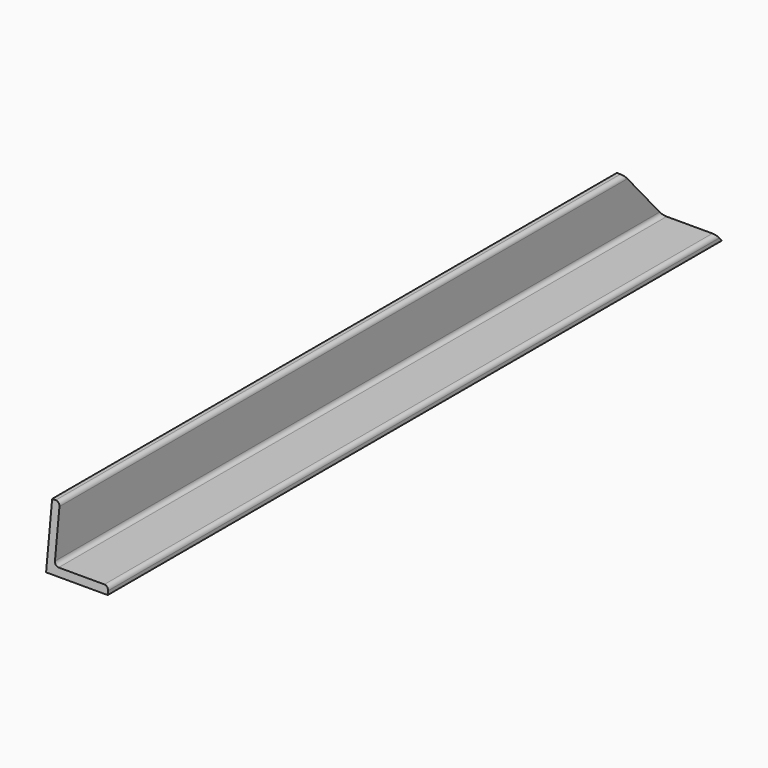
from build123d import *

# Parameters (mm, degrees)
F1_DEPTH = 474.6625
F2_R     = 5.08
F4_DEPTH = 76.2
F5_DEPTH = 76.2


with BuildPart() as f1:
    # F0 (on Front) → F1 (new body, symmetric)
    with BuildSketch(Plane.XZ):
        Polygon((0, 76.2), (0, 0), (76.2, 0), (76.2, 9.525), (9.525, 9.525), (9.525, 76.2), align=None)
    extrude(amount=F1_DEPTH, both=True)

    # F2
    f2_edges = [f1.edges().sort_by_distance(p)[0] for p in [
        (9.525, 0, 76.2),
        (9.525, 0, 9.525),
        (76.2, 0, 9.525),
    ]]
    fillet(f2_edges, radius=F2_R)

    # F3 (on face) → F4 (cut)
    with BuildSketch(Plane(origin=(0, 0, 0), x_dir=(0, -1, 0), z_dir=(-1, 0, 0))):
        Polygon((-474.6625, 76.2), (-474.6625, 0), (-407.483163, 76.2), align=None)
        Polygon((465.306316, 76.2), (474.6625, 0), (474.6625, 76.2), align=None)
    extrude(amount=-F4_DEPTH, mode=Mode.SUBTRACT)

    # F3 (on face) → F5 (cut)
    with BuildSketch(Plane(origin=(0, 0, 0), x_dir=(0, -1, 0), z_dir=(-1, 0, 0))):
        Polygon((-474.6625, 76.2), (-474.6625, 0), (-407.483163, 76.2), align=None)
        Polygon((465.306316, 76.2), (474.6625, 0), (474.6625, 76.2), align=None)
    extrude(amount=-F5_DEPTH, mode=Mode.SUBTRACT)


solid = f1.part
